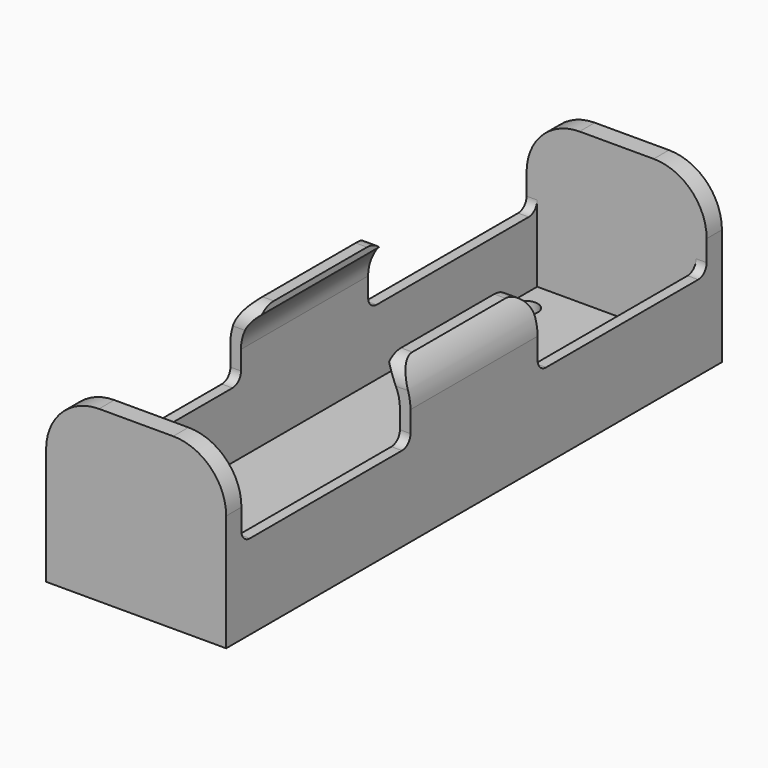
from build123d import *

# Parameters (mm, degrees)
PAD_DEPTH            = 29.25
POCKET_DEPTH         = 27.45
POCKET002_DEPTH      = 8.501
POCKET002_DEPTH_BACK = 8.501
SKETCH017_W          = 12
SKETCH017_H          = 20
POCKET003_DEPTH      = 7.5
SKETCH018_R          = 1.15
POCKET004_DEPTH      = 1.801
POCKET004_DEPTH_BACK = 14.201


with BuildPart() as part:
    # Sketch → Pad (new body, symmetric)
    with BuildSketch(Plane.XZ):
        with BuildLine():
            Line((-3.5, 14.2), (3.5, 14.2))
            ThreePointArc((8.5, 9.2), (7.035534, 12.735534), (3.5, 14.2))
            Line((8.5, 9.2), (8.5, -1.8))
            Line((8.5, -1.8), (-8.5, -1.8))
            Line((-8.5, -1.8), (-8.5, 9.2))
            ThreePointArc((-3.5, 14.2), (-7.035534, 12.735534), (-8.5, 9.2))
        make_face()
    extrude(amount=PAD_DEPTH, both=True)

    # Sketch014 → Pocket (cut, symmetric)
    with BuildSketch(Plane.XZ):
        with BuildLine():
            Line((-7.5, 0), (7.5, 0))
            Line((7.5, 0), (7.5, 9))
            ThreePointArc((7.5, 9), (6.328427, 11.828427), (3.5, 13))
            Line((3.5, 13), (-3.5, 13))
            ThreePointArc((-3.5, 13), (-6.328427, 11.828427), (-7.5, 9))
            Line((-7.5, 9), (-7.5, 0))
        make_face()
    extrude(amount=POCKET_DEPTH, both=True, mode=Mode.SUBTRACT)

    # Sketch016 → Pocket002 (cut, two sides)
    with BuildSketch(Plane.YZ) as pocket002_sk:
        with BuildLine():
            Line((-5.5, 12.7), (5.5, 12.7))
            ThreePointArc((7.5, 10.7), (6.914214, 12.114214), (5.5, 12.7))
            Line((7.5, 10.7), (7.5, 7.2))
            ThreePointArc((7.5, 7.2), (7.792893, 6.492893), (8.5, 6.2))
            Line((8.5, 6.2), (26.45, 6.2))
            ThreePointArc((26.45, 6.2), (27.157107, 6.492893), (27.45, 7.2))
            Line((27.45, 22.7), (27.45, 7.2))
            Line((-27.45, 22.7), (27.45, 22.7))
            Line((-27.45, 7.2), (-27.45, 22.7))
            ThreePointArc((-27.45, 7.2), (-27.157107, 6.492893), (-26.45, 6.2))
            Line((-8.5, 6.2), (-26.45, 6.2))
            ThreePointArc((-8.5, 6.2), (-7.792893, 6.492893), (-7.5, 7.2))
            Line((-7.5, 10.7), (-7.5, 7.2))
            ThreePointArc((-5.5, 12.7), (-6.914214, 12.114214), (-7.5, 10.7))
        make_face()
    extrude(amount=-POCKET002_DEPTH, mode=Mode.SUBTRACT)
    extrude(pocket002_sk.sketch, amount=POCKET002_DEPTH_BACK, mode=Mode.SUBTRACT)

    # Sketch017 → Pocket003 (cut, symmetric)
    with BuildSketch(Plane.XZ):
        with Locations((0, 11)):
            Rectangle(SKETCH017_W, SKETCH017_H)
    extrude(amount=POCKET003_DEPTH, both=True, mode=Mode.SUBTRACT)

    # Sketch018 → Pocket004 (cut, two sides)
    with BuildSketch(Plane.XY) as pocket004_sk:
        with Locations((-6.05, 24.25)):
            Circle(SKETCH018_R)
        with Locations((6.05, -24.25)):
            Circle(SKETCH018_R)
    extrude(amount=-POCKET004_DEPTH, mode=Mode.SUBTRACT)
    extrude(pocket004_sk.sketch, amount=POCKET004_DEPTH_BACK, mode=Mode.SUBTRACT)


solid = part.part
